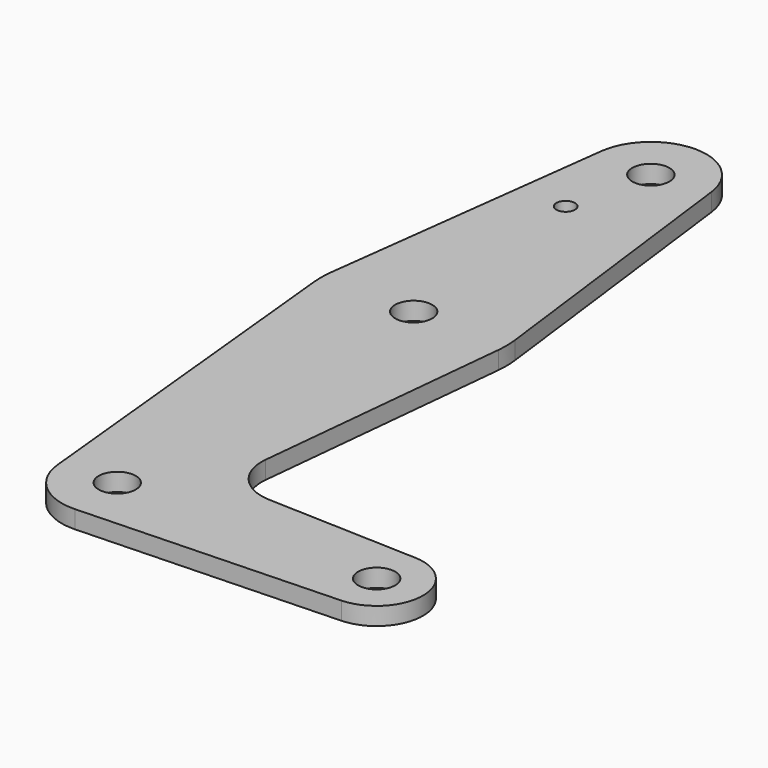
from build123d import *

# Parameters (mm, degrees)
F0_R     = 3.175
F0_R_2   = 1.5875
F1_DEPTH = 3.048


with BuildPart() as f1:
    # F0 (on Top) → F1 (new body)
    with BuildSketch(Plane.XY):
        with BuildLine():
            Line((-15.795426, 61.9125), (-9.477255, -0.9525))
            ThreePointArc((-9.477255, -0.9525), (-6.262383, -7.17692), (0.340179, -9.518923))
            Line((0.340179, -9.518923), (44.733482, -7.932436))
            ThreePointArc((44.733482, -7.932436), (52.3875, 0), (44.733482, 7.932436))
            Line((44.733482, 7.932436), (18.9676, 8.853234))
            ThreePointArc((18.9676, 8.853234), (13.2612, 11.571359), (11.341187, 17.593382))
            Line((11.341187, 17.593382), (15.795426, 61.9125))
            ThreePointArc((15.795426, 61.9125), (15.873744, 63.699705), (15.750488, 65.484375))
            Line((15.750488, 65.484375), (9.450293, 115.490625))
            ThreePointArc((9.450293, 115.490625), (0, 123.825), (-9.450293, 115.490625))
            Line((-9.450293, 115.490625), (-15.750488, 65.484375))
            ThreePointArc((-15.750488, 65.484375), (-15.873744, 63.699705), (-15.795426, 61.9125))
        make_face()
        Circle(F0_R, mode=Mode.SUBTRACT)
        with Locations((44.45, 0)):
            Circle(F0_R, mode=Mode.SUBTRACT)
        with Locations((0, 63.5)):
            Circle(F0_R, mode=Mode.SUBTRACT)
        with Locations((-3.175, 100.0252)):
            Circle(F0_R_2, mode=Mode.SUBTRACT)
        with Locations((0, 114.3)):
            Circle(F0_R, mode=Mode.SUBTRACT)
    extrude(amount=F1_DEPTH)


solid = f1.part
